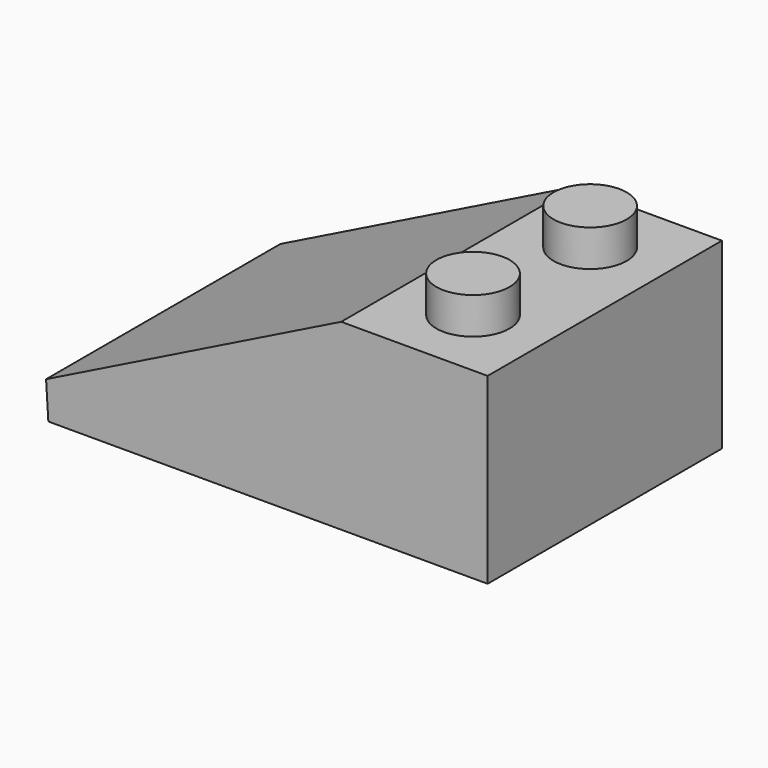
from build123d import *

# Parameters (mm, degrees)
F1_DEPTH = 16
F2_R     = 2
F3_DEPTH = 2
F4_T     = -1
F5_R     = 2.8
F5_R_2   = 1.8


with BuildPart() as f1:
    # F0 (on Front) → F1 (new body)
    with BuildSketch(Plane.XZ):
        Polygon((-22.2741838526, -1.6455285968), (-22.1515364396, -3.6417644576), (1.8484635604, -3.6417644576), (1.8484635604, 6.3582355424), (-6.1515364396, 6.3582355424), align=None)
    extrude(amount=F1_DEPTH)

    # F2 (on face) → F3 (join)
    with BuildSketch(Plane.XY.offset(6.3582355424)):
        with Locations((-2.1515364396, -4)):
            Circle(F2_R)
        with Locations((-2.1515364396, -12)):
            Circle(F2_R)
    extrude(amount=F3_DEPTH)

    # F4
    f4_openings = [f1.faces().sort_by_distance(p)[0] for p in [
        (-10.151536, -8, -3.641764),
    ]]
    offset(amount=F4_T, openings=f4_openings, kind=Kind.INTERSECTION)

    # F5 (on face) → F6 (join, up to the next surface of F1)
    with BuildSketch(Plane(origin=(0, 0, -3.6417644576), x_dir=(1, 0, 0), z_dir=(0, 0, -1))):
        with Locations((-6.1515364396, 8.0000003978)):
            Circle(F5_R)
        with Locations((-6.1515364396, 8.0000003978)):
            Circle(F5_R_2, mode=Mode.SUBTRACT)
        with Locations((-14.1496508211, 8.0000003978)):
            Circle(F5_R)
        with Locations((-14.1496508211, 8.0000003978)):
            Circle(F5_R_2, mode=Mode.SUBTRACT)
    extrude(until=Until.NEXT, dir=(0, 0, 1))


solid = f1.part
